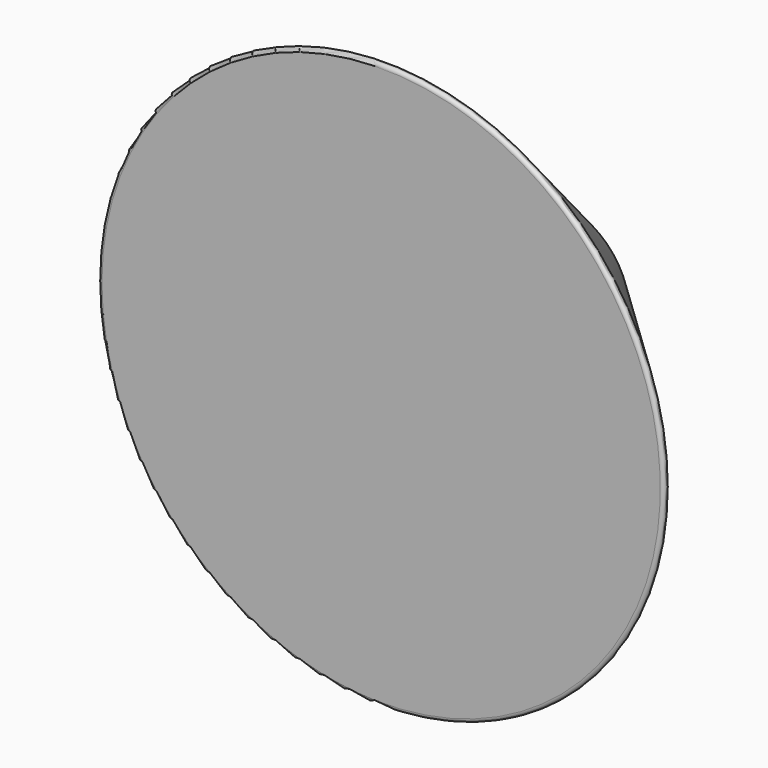
from build123d import *


with BuildPart() as f1:
    # F0 (on Top) → F1 (revolve)
    with BuildSketch(Plane.XY):
        with BuildLine():
            Line((-10.587983, 29.970097), (-39.165617, 0.850215))
            ThreePointArc((-39.165617, 0.850215), (-39.269792, 0.30649), (-38.808756, 0))
            Line((-38.808756, 0), (-4.5, 0))
            Line((-4.5, 0), (0, 0))
            Line((0, 0), (0, 15.569237))
            ThreePointArc((0, 15.569237), (-4.236582, 17.913794), (-4.5, 22.748686))
            Line((-4.5, 22.748686), (-4.5, 29.569237))
            ThreePointArc((-4.5, 29.569237), (-4.792893, 30.276344), (-5.5, 30.569237))
            Line((-5.5, 30.569237), (-9.160541, 30.569237))
            ThreePointArc((-9.160541, 30.569237), (-9.934582, 30.413379), (-10.587983, 29.970097))
        make_face()
    revolve(axis=Axis((0, 7.784618, 0), (0, -1, 0)))


solid = f1.part
